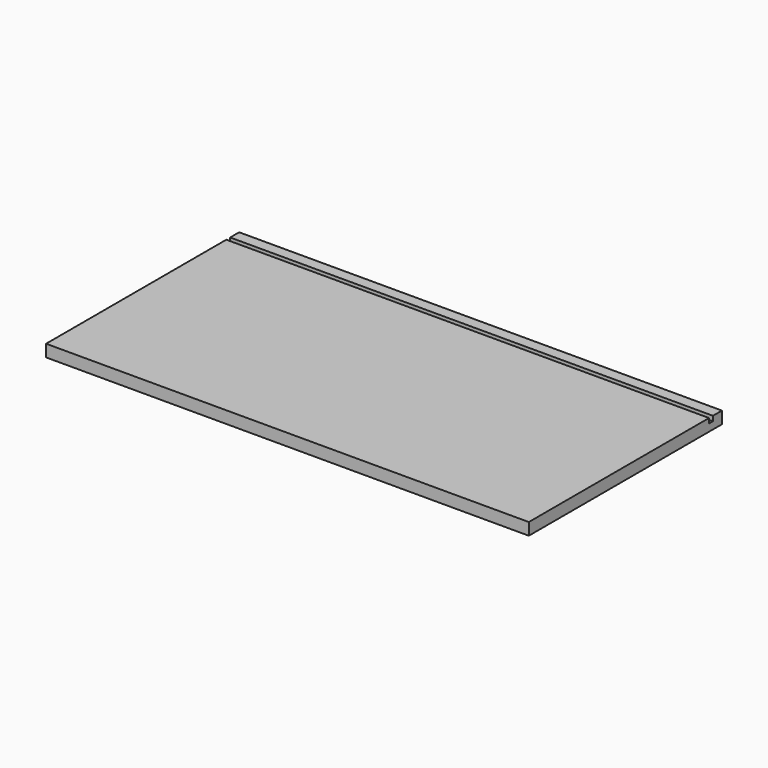
from build123d import *

# Parameters (mm, degrees)
F0_W     = 600
F0_H     = 300
F1_DEPTH = 15
F2_W     = 6
F2_H     = 6
F3_DEPTH = 600


with BuildPart() as f1:
    # F0 (on Top) → F1 (new body)
    with BuildSketch(Plane.XY):
        with Locations((300, -150)):
            Rectangle(F0_W, F0_H)
    extrude(amount=F1_DEPTH)

    # F2 (on face) → F3 (cut)
    with BuildSketch(Plane(origin=(0, 0, 0), x_dir=(0, -1, 0), z_dir=(-1, 0, 0))):
        with Locations((17, 12)):
            Rectangle(F2_W, F2_H)
        with Locations((17, 12)):
            Rectangle(F2_W, F2_H)
    extrude(amount=-F3_DEPTH, mode=Mode.SUBTRACT)


solid = f1.part
